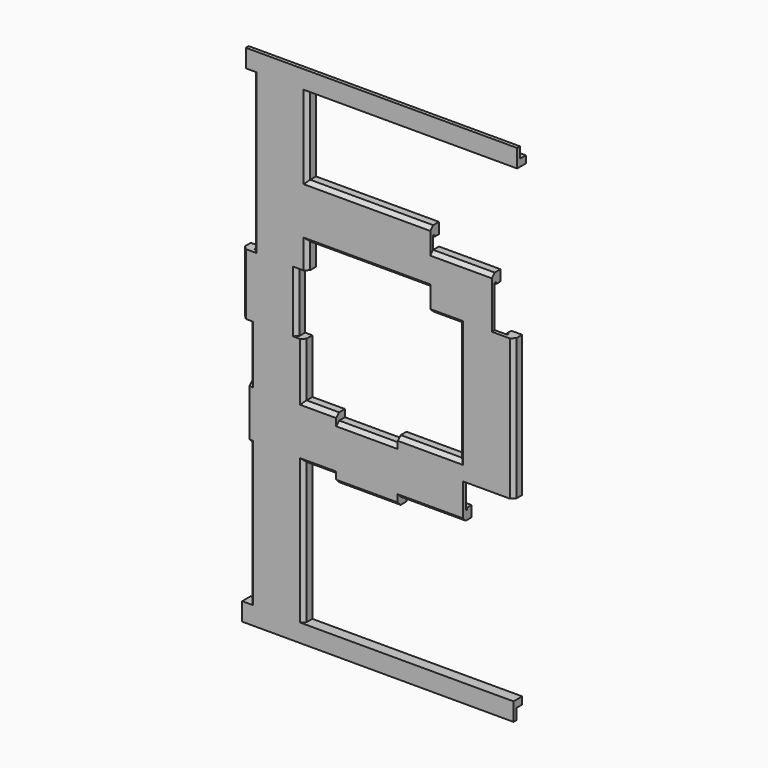
from build123d import *

# Parameters (mm, degrees)
PAD_DEPTH       = 74
PAD001_DEPTH    = 17
PAD002_DEPTH    = 49
PAD003_DEPTH    = 35
PAD004_DEPTH    = 17
PAD005_DEPTH    = 39
PAD006_DEPTH    = 18
PAD007_DEPTH    = 17
PAD008_DEPTH    = 24
POCKET_DEPTH    = 74
POCKET001_DEPTH = 17
POCKET002_DEPTH = 49
POCKET003_DEPTH = 37
POCKET004_DEPTH = 17
POCKET005_DEPTH = 42
POCKET006_DEPTH = 20
POCKET007_DEPTH = 17
POCKET008_DEPTH = 24
SKETCH020_W     = 3
SKETCH020_H     = 5
PAD009_DEPTH    = 75
SKETCH021_W     = 2
SKETCH021_H     = 3
POCKET009_DEPTH = 75
POCKET010_DEPTH = 2
SKETCH023_W     = 3
SKETCH023_H     = 5
PAD010_DEPTH    = 75
SKETCH024_W     = 2
SKETCH024_H     = 3
POCKET011_DEPTH = 75
POCKET012_DEPTH = 3


with BuildPart() as part:
    # Sketch → Pad (new body)
    with BuildSketch(Plane.XY):
        Polygon((0, 0), (15, 0), (15, -2), (14, -3), (1, -3), (0, -2), align=None)
    extrude(amount=PAD_DEPTH)

    # Sketch002 (on Face8 of Pad) → Pad001 (join)
    with BuildSketch(Plane.XY.offset(74)):
        Polygon((-2, 0), (13, 0), (13, -2), (12, -3), (-1, -3), (-2, -2), align=None)
    extrude(amount=PAD001_DEPTH)

    # Sketch003 (on Face13 of Pad001) → Pad002 (join)
    with BuildSketch(Plane.XY.offset(91)):
        Polygon((1, 0), (16, 0), (16, -2), (15, -3), (2, -3), (1, -2), align=None)
    extrude(amount=PAD002_DEPTH)

    # Sketch004 (on Face21 of Pad002) → Pad003 (join)
    with BuildSketch(Plane(origin=(15, 0, 0), x_dir=(0, 0, -1), z_dir=(1, 0, 0))):
        Polygon((-113, 0), (-98, 0), (-98, -2), (-99, -3), (-112, -3), (-113, -2), align=None)
    extrude(amount=PAD003_DEPTH)

    # Sketch005 (on Face33 of Pad003) → Pad004 (join)
    with BuildSketch(Plane(origin=(50, 0, 0), x_dir=(0, 0, -1), z_dir=(1, 0, 0))):
        Polygon((-107, 0), (-92, 0), (-92, -2), (-93, -3), (-106, -3), (-107, -2), align=None)
    extrude(amount=PAD004_DEPTH)

    # Sketch006 (on Face38 of Pad004) → Pad005 (join)
    with BuildSketch(Plane(origin=(0, 0, 93), x_dir=(-1, 0, 0), z_dir=(0, 0, -1))):
        Polygon((-73, 0), (-58, 0), (-58, -2), (-59, -3), (-72, -3), (-73, -2), align=None)
    extrude(amount=PAD005_DEPTH)

    # Sketch007 (on Face45 of Pad005) → Pad006 (join)
    with BuildSketch(Plane.ZY.offset(-59)):
        Polygon((44, 0), (59, 0), (59, -2), (58, -3), (45, -3), (44, -2), align=None)
    extrude(amount=PAD006_DEPTH)

    # Sketch008 (on Face58 of Pad006) → Pad007 (join)
    with BuildSketch(Plane.ZY.offset(-41)):
        Polygon((42, 0), (57, 0), (57, -2), (56, -3), (43, -3), (42, -2), align=None)
    extrude(amount=PAD007_DEPTH)

    # Sketch009 (on Face66 of Pad007) → Pad008 (join)
    with BuildSketch(Plane.ZY.offset(-24)):
        Polygon((44, 0), (59, 0), (59, -2), (58, -3), (45, -3), (44, -2), align=None)
    extrude(amount=PAD008_DEPTH)

    # Sketch010 (on Face2 of Pad008) → Pocket (cut)
    with BuildSketch(Plane(origin=(0, 0, 0), x_dir=(1, 0, 0), z_dir=(0, 0, -1))):
        Polygon((2.5, 2), (12.5, 2), (12.5, 1.5), (12, 1.5), (12, 0), (3, 0), (3, 1.5), (2.5, 1.5), align=None)
    extrude(amount=-POCKET_DEPTH, mode=Mode.SUBTRACT)

    # Sketch012 (on Face38 of Pocket) → Pocket001 (cut)
    with BuildSketch(Plane(origin=(0, 0, 74), x_dir=(1, 0, 0), z_dir=(0, 0, -1))):
        Polygon((0.5, 2), (10.5, 2), (10.5, 1.5), (10, 1.5), (10, 0), (1, 0), (1, 1.5), (0.5, 1.5), align=None)
    extrude(amount=-POCKET001_DEPTH, mode=Mode.SUBTRACT)

    # Sketch013 (on Face68 of Pocket001) → Pocket002 (cut)
    with BuildSketch(Plane(origin=(0, 0, 91), x_dir=(1, 0, 0), z_dir=(0, 0, -1))):
        Polygon((3.5, 2), (13.5, 2), (13.5, 1.5), (13, 1.5), (13, 0), (4, 0), (4, 1.5), (3.5, 1.5), align=None)
    extrude(amount=-POCKET002_DEPTH, mode=Mode.SUBTRACT)

    # Sketch014 (on Face102 of Pocket002) → Pocket003 (cut)
    with BuildSketch(Plane(origin=(50, 0, 0), x_dir=(0, 0, 1), z_dir=(1, 0, 0))):
        Polygon((100.5, 2), (110.5, 2), (110.5, 1.5), (110, 1.5), (110, 0), (101, 0), (101, 1.5), (100.5, 1.5), align=None)
    extrude(amount=-POCKET003_DEPTH, mode=Mode.SUBTRACT)

    # Sketch015 (on Face132 of Pocket003) → Pocket004 (cut)
    with BuildSketch(Plane(origin=(67, 0, 0), x_dir=(0, 0, 1), z_dir=(1, 0, 0))):
        Polygon((94.5, 2), (104.5, 2), (104.5, 1.5), (104, 1.5), (104, 0), (95, 0), (95, 1.5), (94.5, 1.5), align=None)
    extrude(amount=-POCKET004_DEPTH, mode=Mode.SUBTRACT)

    # Sketch016 (on Face132 of Pocket004) → Pocket005 (cut)
    with BuildSketch(Plane(origin=(0, 0, 54), x_dir=(1, 0, 0), z_dir=(0, 0, -1))):
        Polygon((60.5, 2), (70.5, 2), (70.5, 1.5), (70, 1.5), (70, 0), (61, 0), (61, 1.5), (60.5, 1.5), align=None)
    extrude(amount=-POCKET005_DEPTH, mode=Mode.SUBTRACT)

    # Sketch017 (on Face115 of Pocket005) → Pocket006 (cut)
    with BuildSketch(Plane(origin=(61, 0, 0), x_dir=(0, 0, 1), z_dir=(1, 0, 0))):
        Polygon((46.5, 2), (56.5, 2), (56.5, 1.5), (56, 1.5), (56, 0), (47, 0), (47, 1.5), (46.5, 1.5), align=None)
    extrude(amount=-POCKET006_DEPTH, mode=Mode.SUBTRACT)

    # Sketch018 (on Face90 of Pocket006) → Pocket007 (cut)
    with BuildSketch(Plane(origin=(41, 0, 0), x_dir=(0, 0, 1), z_dir=(1, 0, 0))):
        Polygon((44.5, 2), (54.5, 2), (54.5, 1.5), (54, 1.5), (54, 0), (45, 0), (45, 1.5), (44.5, 1.5), align=None)
    extrude(amount=-POCKET007_DEPTH, mode=Mode.SUBTRACT)

    # Sketch019 (on Face19 of Pocket007) → Pocket008 (cut)
    with BuildSketch(Plane(origin=(0, 0, 0), x_dir=(0, 0, -1), z_dir=(-1, 0, 0))):
        Polygon((-56.5, 2), (-46.5, 2), (-46.5, 1.5), (-47, 1.5), (-47, 0), (-56, 0), (-56, 1.5), (-56.5, 1.5), align=None)
    extrude(amount=-POCKET008_DEPTH, mode=Mode.SUBTRACT)

    # Sketch020 (on Face13 of Pocket008) → Pad009 (join)
    with BuildSketch(Plane.YZ.offset(-2)):
        with Locations((-1.5, 2.5)):
            Rectangle(SKETCH020_W, SKETCH020_H)
    extrude(amount=PAD009_DEPTH)

    # Sketch021 (on Face20 of Pad009) → Pocket009 (cut)
    with BuildSketch(Plane.YZ.offset(73)):
        with Locations((-1, 1.5)):
            Rectangle(SKETCH021_W, SKETCH021_H)
    extrude(amount=-POCKET009_DEPTH, mode=Mode.SUBTRACT)

    # Sketch022 (on Face2 of Pocket009) → Pocket010 (cut)
    with BuildSketch(Plane(origin=(0, 0, 3), x_dir=(1, 0, 0), z_dir=(0, 0, -1))):
        Polygon((2.5, 2), (12.5, 2), (12.5, 1.5), (12, 1.5), (12, 0), (3, 0), (3, 1.5), (2.5, 1.5), align=None)
    extrude(amount=-POCKET010_DEPTH, mode=Mode.SUBTRACT)

    # Sketch023 (on Face185 of Pocket010) → Pad010 (join)
    with BuildSketch(Plane.YZ.offset(-1)):
        with Locations((-1.5, 137.5)):
            Rectangle(SKETCH023_W, SKETCH023_H)
    extrude(amount=PAD010_DEPTH)

    # Sketch024 (on Face226 of Pad010) → Pocket011 (cut)
    with BuildSketch(Plane.YZ.offset(74)):
        with Locations((-1, 138.5)):
            Rectangle(SKETCH024_W, SKETCH024_H)
    extrude(amount=-POCKET011_DEPTH, mode=Mode.SUBTRACT)

    # Sketch025 (on Face209 of Pocket011) → Pocket012 (cut)
    with BuildSketch(Plane(origin=(0, 0, 137), x_dir=(-1, 0, 0), z_dir=(0, 0, 1))):
        Polygon((-13.5, 2), (-3.5, 2), (-3.5, 1.5), (-4, 1.5), (-4, 0), (-13, 0), (-13, 1.5), (-13.5, 1.5), align=None)
    extrude(amount=-POCKET012_DEPTH, mode=Mode.SUBTRACT)


solid = part.part
